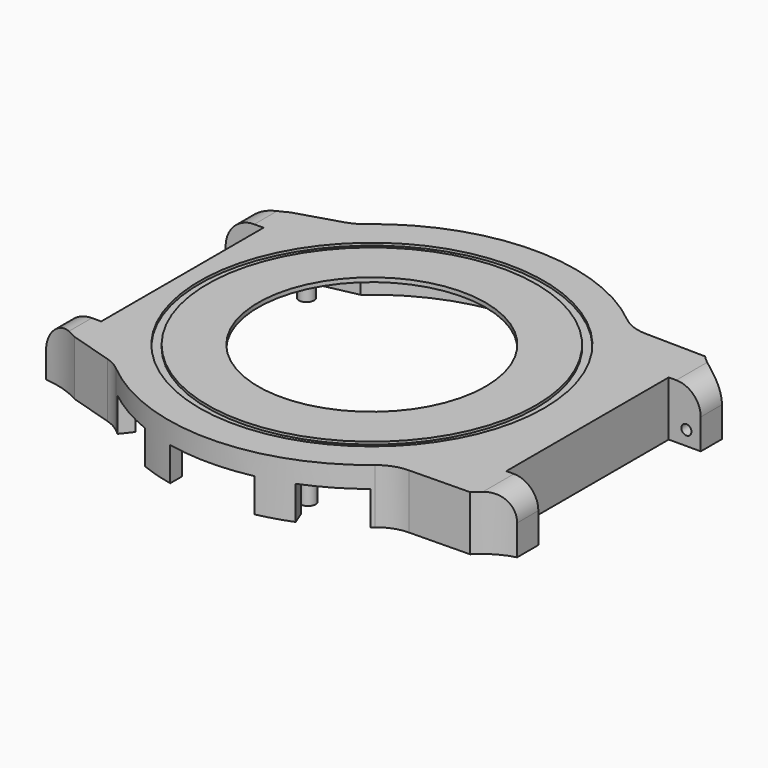
from build123d import *

# Parameters (mm, degrees)
PAD_DEPTH       = 6.5
POCKET_DEPTH    = 6
SKETCH002_R     = 13.5
POCKET001_DEPTH = 1
SKETCH003_W     = 5.4
SKETCH003_H     = 6.5
PAD001_DEPTH    = 3.8
POCKET002_DEPTH = 10
SKETCH008_R     = 0.6
POCKET003_DEPTH = 2
SKETCH009_R     = 0.6
POCKET004_DEPTH = 2
FILLET_R        = 2.9
FILLET001_R     = 2.9
FILLET002_R     = 5
FILLET003_R     = 5
FILLET004_R     = 5
FILLET005_R     = 5
SKETCH010_W     = 3.95
SKETCH010_H     = 6.5
PAD002_DEPTH    = 4.5
POCKET005_DEPTH = 10
SKETCH012_R     = 0.6
POCKET006_DEPTH = 2
SKETCH013_R     = 0.6
POCKET007_DEPTH = 2
FILLET006_R     = 3.4
FILLET007_R     = 3.4
SKETCH014_R     = 20.45
SKETCH014_R_2   = 19.5
POCKET008_DEPTH = 0.3
SKETCH015_R     = 0.9
PAD003_DEPTH    = 6
FILLET008_R     = 1
POCKET009_DEPTH = 4
POCKET010_DEPTH = 4


with BuildPart() as part:
    # Sketch → Pad (new body)
    with BuildSketch(Plane.XY):
        with BuildLine():
            Line((-22.5019915649, 16), (-22.5019915649, -16))
            Line((-22.5019915649, -16), (-16.2858834578, -17.9))
            ThreePointArc((-16.2858834578, -17.9), (0.2206895736, -24.1989937004), (16.6096357576, -17.6))
            Line((16.6096357576, -17.6), (25.6083856708, -17.45))
            Line((25.6083856708, 17.45), (25.6083856708, -17.45))
            Line((16.6096357576, 17.6), (25.6083856708, 17.45))
            ThreePointArc((16.6096357576, 17.6), (0.2206895736, 24.1989937004), (-16.2858834578, 17.9))
            Line((-22.5019915649, 16), (-16.2858834578, 17.9))
        make_face()
    extrude(amount=PAD_DEPTH)

    # Sketch001 → Pocket (cut)
    with BuildSketch(Plane.XY):
        with BuildLine():
            Line((-14.8539557021, 16.9), (-21.2122180433, 15.55))
            Line((-21.2122180433, 15.55), (-21.2122180433, -15.55))
            Line((-21.2122180433, -15.55), (-14.8539557021, -16.9))
            ThreePointArc((-14.8539557021, -16.9), (-0.0760301383, -22.4998715423), (14.739402973, -17))
            Line((14.739402973, -17), (23.6191552218, -16.4))
            Line((23.6191552218, 16.4), (23.6191552218, -16.4))
            Line((14.739402973, 17), (23.6191552218, 16.4))
            ThreePointArc((14.739402973, 17), (-0.0760301383, 22.4998715423), (-14.8539557021, 16.9))
        make_face()
    extrude(amount=POCKET_DEPTH, mode=Mode.SUBTRACT)

    # Sketch002 (on Face19 of Pocket) → Pocket001 (cut)
    with BuildSketch(Plane(origin=(0, 0, 6), x_dir=(1, 0, 0), z_dir=(0, 0, -1))):
        Circle(SKETCH002_R)
    extrude(amount=-POCKET001_DEPTH, mode=Mode.SUBTRACT)

    # Sketch003 (on Face6 of Pocket001) → Pad001 (join)
    with BuildSketch(Plane.YZ.offset(25.6083856708)):
        with Locations((-14.75, 3.25)):
            Rectangle(SKETCH003_W, SKETCH003_H)
        with Locations((14.75, 3.25)):
            Rectangle(SKETCH003_W, SKETCH003_H)
    extrude(amount=PAD001_DEPTH)

    # Sketch006 → Pocket002 (cut)
    with BuildSketch(Plane.XY.offset(6.5)):
        with BuildLine():
            ThreePointArc((25.6083856708, 17.45), (27.3544703324, 16.0634214301), (29.4083856708, 15.1957558499))
            Line((29.4083856708, 17.45), (29.4083856708, 15.1957558499))
            Line((29.4083856708, 17.45), (25.6083856708, 17.45))
        make_face()
        with BuildLine():
            ThreePointArc((29.4083856708, -15.1957558499), (27.3544703324, -16.0634214301), (25.6083856708, -17.45))
            Line((29.4083856708, -17.45), (25.6083856708, -17.45))
            Line((29.4083856708, -15.1957558499), (29.4083856708, -17.45))
        make_face()
    extrude(amount=-POCKET002_DEPTH, mode=Mode.SUBTRACT)

    # Sketch008 (on Face27 of Pocket002) → Pocket003 (cut)
    with BuildSketch(Plane(origin=(0, -12.05, 0), x_dir=(-1, 0, 0), z_dir=(0, 1, 0))):
        with Locations((-27.7083856708, 1.7)):
            Circle(SKETCH008_R)
    extrude(amount=-POCKET003_DEPTH, mode=Mode.SUBTRACT)

    # Sketch009 (on Face26 of Pocket003) → Pocket004 (cut)
    with BuildSketch(Plane.XZ.offset(-12.05)):
        with Locations((27.7083856708, 1.7)):
            Circle(SKETCH009_R)
    extrude(amount=-POCKET004_DEPTH, mode=Mode.SUBTRACT)

    # Fillet
    fillet_edges = [part.edges().sort_by_distance(p)[0] for p in [
        (29.408386, -13.622878, 6.5),
    ]]
    fillet(fillet_edges, radius=FILLET_R)

    # Fillet001
    fillet001_edges = [part.edges().sort_by_distance(p)[0] for p in [
        (29.408386, 13.622878, 6.5),
    ]]
    fillet(fillet001_edges, radius=FILLET001_R)

    # Fillet002
    fillet002_edges = [part.edges().sort_by_distance(p)[0] for p in [
        (16.609636, -17.6, 3.25),
    ]]
    fillet(fillet002_edges, radius=FILLET002_R)

    # Fillet003
    fillet003_edges = [part.edges().sort_by_distance(p)[0] for p in [
        (16.609636, 17.6, 3.25),
    ]]
    fillet(fillet003_edges, radius=FILLET003_R)

    # Fillet004
    fillet004_edges = [part.edges().sort_by_distance(p)[0] for p in [
        (-16.285883, -17.9, 3.25),
    ]]
    fillet(fillet004_edges, radius=FILLET004_R)

    # Fillet005
    fillet005_edges = [part.edges().sort_by_distance(p)[0] for p in [
        (-16.285883, 17.9, 3.25),
    ]]
    fillet(fillet005_edges, radius=FILLET005_R)

    # Sketch010 (on Face4 of Fillet005) → Pad002 (join)
    with BuildSketch(Plane(origin=(-22.5019915649, 0, 0), x_dir=(0, -1, 0), z_dir=(-1, 0, 0))):
        with Locations((-14.025, 3.25)):
            Rectangle(SKETCH010_W, SKETCH010_H)
        with Locations((14.025, 3.25)):
            Rectangle(SKETCH010_W, SKETCH010_H)
    extrude(amount=PAD002_DEPTH)

    # Sketch011 (on Face6 of Pad002) → Pocket005 (cut)
    with BuildSketch(Plane.XY.offset(6.5)):
        with BuildLine():
            ThreePointArc((-27.0019915649, 14.6), (-24.6759937451, 15.0557212933), (-22.5019915649, 16))
            Line((-22.5019915649, 16), (-27.0019915649, 16))
            Line((-27.0019915649, 16), (-27.0019915649, 14.6))
        make_face()
        with BuildLine():
            ThreePointArc((-22.5019915649, -16), (-24.6759937451, -15.0557212933), (-27.0019915649, -14.6))
            Line((-27.0019915649, -14.6), (-27.0019915649, -16))
            Line((-27.0019915649, -16), (-22.5019915649, -16))
        make_face()
    extrude(amount=-POCKET005_DEPTH, mode=Mode.SUBTRACT)

    # Sketch012 (on Face23 of Pocket005) → Pocket006 (cut)
    with BuildSketch(Plane(origin=(0, -12.05, 0), x_dir=(-1, 0, 0), z_dir=(0, 1, 0))):
        with Locations((25.3019915649, 1.7)):
            Circle(SKETCH012_R)
    extrude(amount=-POCKET006_DEPTH, mode=Mode.SUBTRACT)

    # Sketch013 (on Face21 of Pocket006) → Pocket007 (cut)
    with BuildSketch(Plane.XZ.offset(-12.05)):
        with Locations((-25.3019915649, 1.7)):
            Circle(SKETCH013_R)
    extrude(amount=-POCKET007_DEPTH, mode=Mode.SUBTRACT)

    # Fillet006
    fillet006_edges = [part.edges().sort_by_distance(p)[0] for p in [
        (-27.001992, 13.325, 6.5),
    ]]
    fillet(fillet006_edges, radius=FILLET006_R)

    # Fillet007
    fillet007_edges = [part.edges().sort_by_distance(p)[0] for p in [
        (-27.001992, -13.325, 6.5),
    ]]
    fillet(fillet007_edges, radius=FILLET007_R)

    # Sketch014 (on Face4 of Fillet007) → Pocket008 (cut)
    with BuildSketch(Plane.XY.offset(6.5)):
        Circle(SKETCH014_R)
        Circle(SKETCH014_R_2, mode=Mode.SUBTRACT)
    extrude(amount=-POCKET008_DEPTH, mode=Mode.SUBTRACT)

    # Sketch015 (on Face55 of Pocket008) → Pad003 (join)
    with BuildSketch(Plane(origin=(0, 0, 6), x_dir=(1, 0, 0), z_dir=(0, 0, -1))):
        with Locations((-18.42, 13.32)):
            Circle(SKETCH015_R)
        with Locations((-18.42, -13.32)):
            Circle(SKETCH015_R)
        with Locations((7.27, 18.56)):
            Circle(SKETCH015_R)
        with Locations((5.37, -19.79)):
            Circle(SKETCH015_R)
    extrude(amount=PAD003_DEPTH)

    # Fillet008
    fillet008_edges = [part.edges().sort_by_distance(p)[0] for p in [
        (-19.32, -13.32, 6),
        (6.37, -18.56, 6),
        (-19.32, 13.32, 6),
        (4.47, 19.79, 6),
    ]]
    fillet(fillet008_edges, radius=FILLET008_R)

    # Sketch016 (on Face16 of Fillet008) → Pocket009 (cut)
    with BuildSketch(Plane(origin=(0, 0, 0), x_dir=(1, 0, 0), z_dir=(0, 0, -1))):
        with BuildLine():
            Line((-5, 23.6778377391), (-5, 21.9374109685))
            ThreePointArc((5, 21.9374109685), (0, 22.5), (-5, 21.9374109685))
            Line((5, 23.6778377391), (5, 21.9374109685))
            ThreePointArc((5, 23.6778377391), (0, 24.2), (-5, 23.6778377391))
        make_face()
    extrude(amount=-POCKET009_DEPTH, mode=Mode.SUBTRACT)

    # Sketch017 → Pocket010 (cut)
    with BuildSketch(Plane.XY):
        with BuildLine():
            Line((-3.499984119, -22.2261132717), (-3.5, -23.9455632634))
            ThreePointArc((-3.5, -23.9455632634), (0, -24.2000019575), (3.5, -23.9455632634))
            Line((3.5000158811, -22.2261082701), (3.5, -23.9455632634))
            ThreePointArc((-3.499984119, -22.2261132717), (1.60767e-05, -22.5), (3.5000158811, -22.2261082701))
        make_face()
        with BuildLine():
            ThreePointArc((-13.9498796389, -17.6536358312), (-11.25, -19.4855715851), (-8.3135572795, -20.9077680626))
            Line((-8.3135572795, -20.9077680626), (-8.9416927184, -22.487466094))
            ThreePointArc((-15.0038705449, -18.987466094), (-12.1, -20.9578147716), (-8.9416927184, -22.487466094))
            Line((-13.9498796389, -17.6536358312), (-15.0038705449, -18.987466094))
        make_face()
        with BuildLine():
            ThreePointArc((8.3135572795, -20.9077680626), (11.25, -19.4855715851), (13.9498796389, -17.6536358312))
            Line((13.9498796389, -17.6536358312), (15.0038705449, -18.987466094))
            ThreePointArc((8.9416927184, -22.487466094), (12.1, -20.9578147716), (15.0038705449, -18.987466094))
            Line((8.3135572795, -20.9077680626), (8.9416927184, -22.487466094))
        make_face()
    extrude(amount=POCKET010_DEPTH, mode=Mode.SUBTRACT)


solid = part.part
